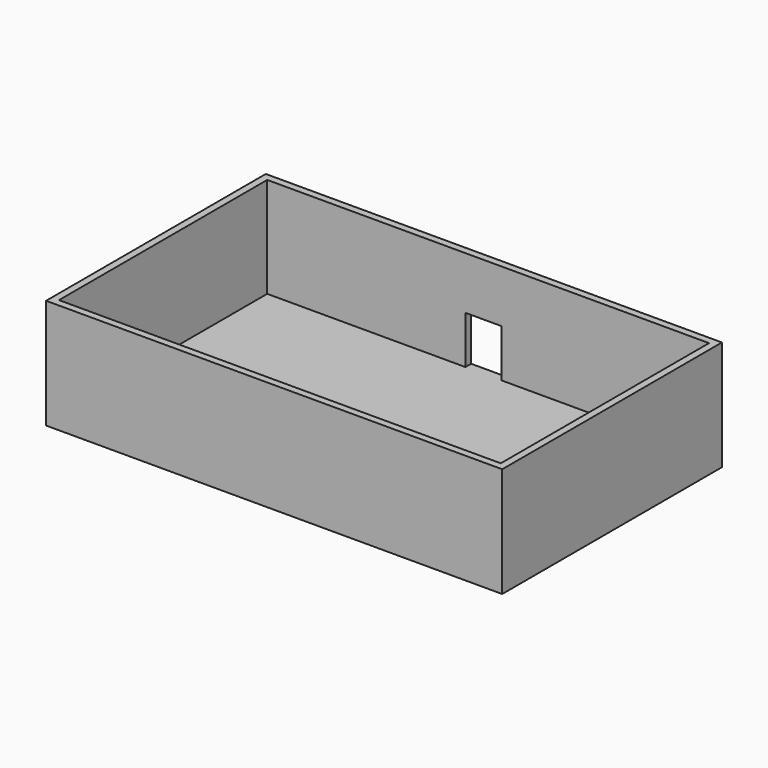
from build123d import *

# Parameters (mm, degrees)
F0_W     = 95.5
F0_H     = 57.5
F0_W_2   = 92.5
F0_H_2   = 54.5
F0_W_3   = 90.5
F0_H_3   = 52.5
F1_DEPTH = 2
F2_DEPTH = 21
F3_W     = 7.5
F3_H     = 10
F4_DEPTH = 1.5
F5_W     = 15
F5_H     = 17
F6_DEPTH = 2
F7_ANGLE = 180


with BuildPart() as f1:
    # F0 (on Top) → F1 (new body)
    with BuildSketch(Plane.XY):
        with Locations((46.25, -27.25)):
            Rectangle(F0_W, F0_H)
        with Locations((46.25, -27.25)):
            Rectangle(F0_W_2, F0_H_2, mode=Mode.SUBTRACT)
        with Locations((46.25, -27.25)):
            Rectangle(F0_W_2, F0_H_2)
        with Locations((46.25, -27.25)):
            Rectangle(F0_W_3, F0_H_3, mode=Mode.SUBTRACT)
        with Locations((46.25, -27.25)):
            Rectangle(F0_W_3, F0_H_3)
    extrude(amount=F1_DEPTH)

    # F0 (on Top) → F2 (join)
    with BuildSketch(Plane.XY):
        with Locations((46.25, -27.25)):
            Rectangle(F0_W, F0_H)
        with Locations((46.25, -27.25)):
            Rectangle(F0_W_2, F0_H_2, mode=Mode.SUBTRACT)
    extrude(amount=-F2_DEPTH)

    # F3 (on face) → F4 (cut, through all)
    with BuildSketch(Plane(origin=(0, -54.5, 0), x_dir=(-1, 0, 0), z_dir=(0, 1, 0))):
        with Locations((-45.25, -5)):
            Rectangle(F3_W, F3_H)
    extrude(amount=-F4_DEPTH, mode=Mode.SUBTRACT)

    # F5 (on face) → F6 (cut, through all)
    with BuildSketch(Plane(origin=(0, 0, 0), x_dir=(1, 0, 0), z_dir=(0, 0, -1))):
        with Locations((76, 13.5)):
            Rectangle(F5_W, F5_H)
    extrude(amount=-F6_DEPTH, mode=Mode.SUBTRACT)


with BuildPart() as f1_1:
    # F7: moved
    add(f1.part.rotate(Axis((46.25, 1.5, -21), (1, 0, 0)), F7_ANGLE))


solid = f1_1.part
